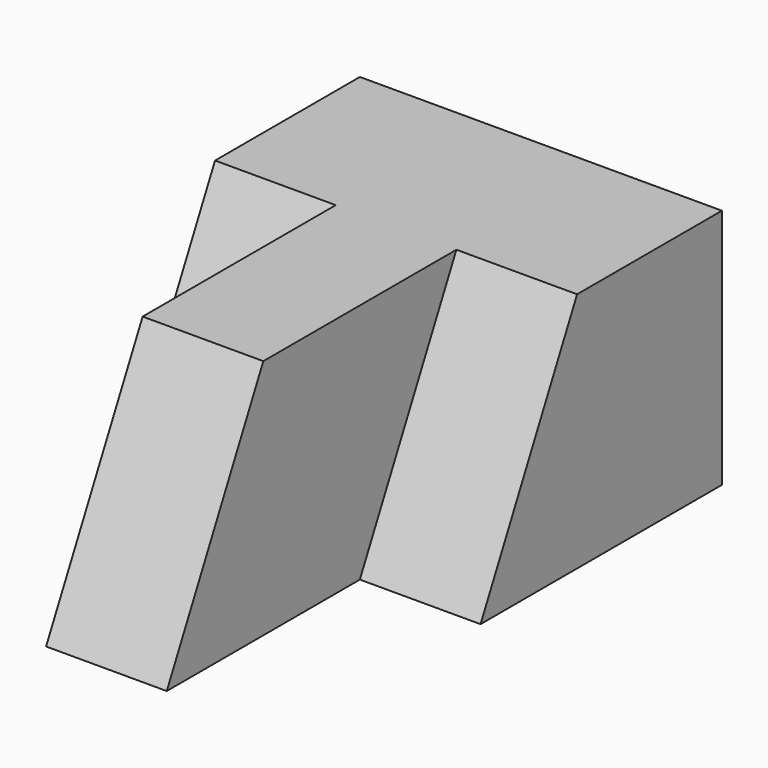
from build123d import *

# Parameters (mm, degrees)
F0_W     = 38.1
F0_H     = 25.4
F1_DEPTH = 19.05
F2_W     = 12.7
F2_H     = 25.4
F3_DEPTH = 38.1
F5_DEPTH = 25.4
F7_DEPTH = 12.7
F9_DEPTH = 12.7


with BuildPart() as f1:
    # F0 (on Front) → F1 (new body)
    with BuildSketch(Plane.XZ):
        with Locations((-19.05, 12.7)):
            Rectangle(F0_W, F0_H)
    extrude(amount=F1_DEPTH)

    # F2 (on face) → F3 (join)
    with BuildSketch(Plane.XZ.offset(19.05)):
        with Locations((-19.05, 12.7)):
            Rectangle(F2_W, F2_H)
    extrude(amount=F3_DEPTH)

    # F4 (on face) → F5 (cut)
    with BuildSketch(Plane(origin=(-25.4, 0, 0), x_dir=(0, -1, 0), z_dir=(-1, 0, 0))):
        Polygon((44.45, 25.4), (57.15, 0), (57.15, 25.4), align=None)
    extrude(amount=-F5_DEPTH, mode=Mode.SUBTRACT)

    # F6 (on face) → F7 (join)
    with BuildSketch(Plane(origin=(-25.4, 0, 0), x_dir=(0, -1, 0), z_dir=(-1, 0, 0))):
        Polygon((19.05, 0), (31.75, 0), (19.05, 25.4), align=None)
    extrude(amount=F7_DEPTH)

    # F8 (on face) → F9 (join)
    with BuildSketch(Plane.YZ.offset(-12.7)):
        Polygon((-19.05, 25.4), (-31.75, 0), (-19.05, 0), align=None)
    extrude(amount=F9_DEPTH)


solid = f1.part
